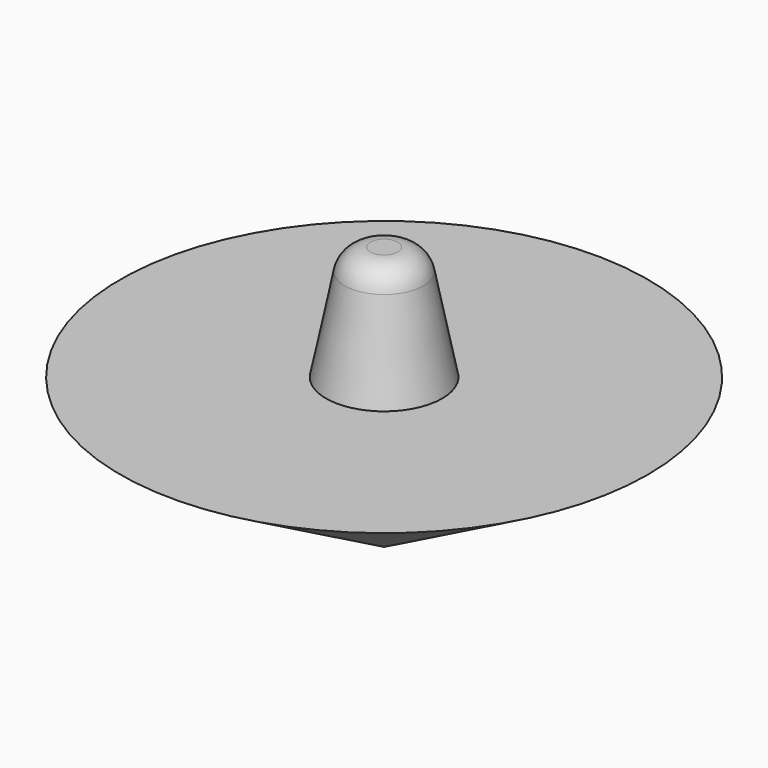
from build123d import *

# Parameters (mm, degrees)
FILLET_R = 3


with BuildPart() as cono:
    # Cone → Cone (revolve)
    with BuildSketch(Plane.XZ):
        Polygon((0, 0), (30, 17), (0, 17), align=None)
    revolve(axis=Axis((0, 0, 0), (0, 0, 1)))


with BuildPart() as fillet_body:
    # Cone001 → Cone001 (revolve)
    with BuildSketch(Plane(origin=(0, 0, 15), x_dir=(1, 0, 0), z_dir=(0, -1, 0))):
        Polygon((0, 0), (7, 0), (4, 15), (0, 15), align=None)
    revolve(axis=Axis((0, 0, 15), (0, 0, 1)))

    # Fusion: union Cono
    add(cono.part)

    # Fillet
    fillet_edges = [fillet_body.edges().sort_by_distance(p)[0] for p in [
        (-4, 0, 30),
    ]]
    fillet(fillet_edges, radius=FILLET_R)


solid = fillet_body.part
